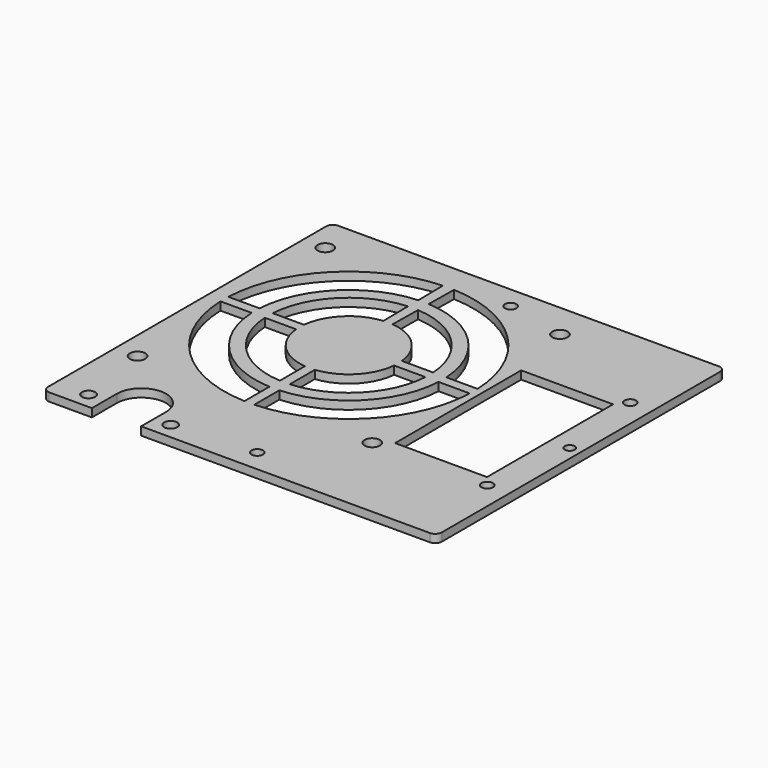
from build123d import *

# Parameters (mm, degrees)
F1_DEPTH = 2.5
F2_R     = 1.75
F3_DEPTH = 2.5
F4_R     = 2.35
F4_R_2   = 2
F5_DEPTH = 2.5
F6_W     = 28
F6_H     = 48
F6_R     = 1.5
F7_DEPTH = 2.5


with BuildPart() as f1:
    # F0 (on Top) → F1 (new body)
    with BuildSketch(Plane.XY):
        with BuildLine():
            Line((58, 55), (-58, 55))
            ThreePointArc((-58, 55), (-59.414214, 54.414214), (-60, 53))
            Line((-60, 53), (-60, -53))
            ThreePointArc((-60, -53), (-59.414214, -54.414214), (-58, -55))
            Line((-58, -55), (58, -55))
            ThreePointArc((58, -55), (59.414214, -54.414214), (60, -53))
            Line((60, -53), (60, 53))
            ThreePointArc((60, 53), (59.414214, 54.414214), (58, 55))
        make_face()
    extrude(amount=F1_DEPTH)

    # F2 (on face) → F3 (cut, through all)
    with BuildSketch(Plane.XY.offset(2.5)):
        with Locations((53.25, 27.25)):
            Circle(F2_R)
        with Locations((0, 48.25)):
            Circle(F2_R)
        with Locations((0, -48.25)):
            Circle(F2_R)
        with Locations((53.25, -27.25)):
            Circle(F2_R)
        with Locations((-53.25, -27.25)):
            Circle(F2_R)
    extrude(amount=-F3_DEPTH, mode=Mode.SUBTRACT)

    # F4 (on face) → F5 (cut, through all)
    with BuildSketch(Plane.XY.offset(2.5)):
        with BuildLine():
            Line((-45, -45.5), (-45, -55))
            Line((-45, -55), (-30, -55))
            Line((-30, -55), (-30, -45.5))
            ThreePointArc((-30, -45.5), (-37.5, -38), (-45, -45.5))
        make_face()
        with Locations((-53.265178, 44.226708)):
            Circle(F4_R)
        with Locations((18.234822, 44.226708)):
            Circle(F4_R)
        with Locations((-53.265178, -27.273292)):
            Circle(F4_R)
        with Locations((18.234822, -27.273292)):
            Circle(F4_R)
        with BuildLine():
            ThreePointArc((-18.921428, -6.457228), (-28.121779, -2.129894), (-32.449114, 7.070458))
            Line((-32.449114, 7.070458), (-41.974786, 7.070458))
            ThreePointArc((-41.974786, 7.070458), (-34.839294, -8.847408), (-18.921428, -15.982901))
            Line((-18.921428, -15.982901), (-18.921428, -6.457228))
        make_face()
        with BuildLine():
            ThreePointArc((-18.921428, -19.988577), (-37.667721, -11.675835), (-45.980463, 7.070458))
            Line((-45.980463, 7.070458), (-55.489148, 7.070458))
            ThreePointArc((-55.489148, 7.070458), (-44.385235, -18.39335), (-18.921428, -29.497263))
            Line((-18.921428, -29.497263), (-18.921428, -19.988577))
        make_face()
        with BuildLine():
            ThreePointArc((-19.223845, 46.438274), (-44.425872, 35.306067), (-55.481741, 10.070458))
            Line((-55.481741, 10.070458), (-45.970581, 10.070458))
            ThreePointArc((-45.970581, 10.070458), (-37.664209, 28.632763), (-19.099009, 36.932665))
            Line((-19.099009, 36.932665), (-19.223845, 46.438274))
        make_face()
        with BuildLine():
            Line((-15.921428, -19.978695), (-15.921428, -29.489856))
            ThreePointArc((-15.921428, -29.489856), (9.421141, -18.326925), (20.458793, 7.070458))
            Line((20.458793, 7.070458), (10.950108, 7.070458))
            ThreePointArc((10.950108, 7.070458), (2.70364, -11.609343), (-15.921428, -19.978695))
        make_face()
        with BuildLine():
            ThreePointArc((-16.108928, 23.410645), (-6.97541, 19.149726), (-2.600086, 10.070458))
            Line((-2.600086, 10.070458), (6.93293, 10.070458))
            ThreePointArc((6.93293, 10.070458), (-0.213218, 25.822952), (-15.983928, 32.92881))
            Line((-15.983928, 32.92881), (-16.108928, 23.410645))
        make_face()
        with BuildLine():
            ThreePointArc((-15.931346, 36.932665), (2.633853, 28.632763), (10.940225, 10.070458))
            Line((10.940225, 10.070458), (20.451386, 10.070458))
            ThreePointArc((20.451386, 10.070458), (9.395517, 35.306067), (-15.806511, 46.438274))
            Line((-15.806511, 46.438274), (-15.931346, 36.932665))
        make_face()
        with BuildLine():
            ThreePointArc((-2.581241, 7.070458), (-6.84216, -2.063059), (-15.921428, -6.438384))
            Line((-15.921428, -6.438384), (-15.921428, -15.971399))
            ThreePointArc((-15.921428, -15.971399), (-0.124773, -8.780865), (6.944431, 7.070458))
            Line((6.944431, 7.070458), (-2.581241, 7.070458))
        make_face()
        with BuildLine():
            Line((-18.921428, 23.410645), (-19.046428, 32.92881))
            ThreePointArc((-19.046428, 32.92881), (-34.817137, 25.822952), (-41.963285, 10.070458))
            Line((-41.963285, 10.070458), (-32.430269, 10.070458))
            ThreePointArc((-32.430269, 10.070458), (-28.054945, 19.149726), (-18.921428, 23.410645))
        make_face()
        with Locations((-50, -50)):
            Circle(F4_R_2)
        with Locations((-25, -50)):
            Circle(F4_R_2)
    extrude(amount=-F5_DEPTH, mode=Mode.SUBTRACT)

    # F6 (on face) → F7 (cut, through all)
    with BuildSketch(Plane.XY.offset(2.5)):
        with Locations((36.588879, 0)):
            Rectangle(F6_W, F6_H)
        with Locations((56.588879, 0)):
            Circle(F6_R)
    extrude(amount=-F7_DEPTH, mode=Mode.SUBTRACT)


solid = f1.part
